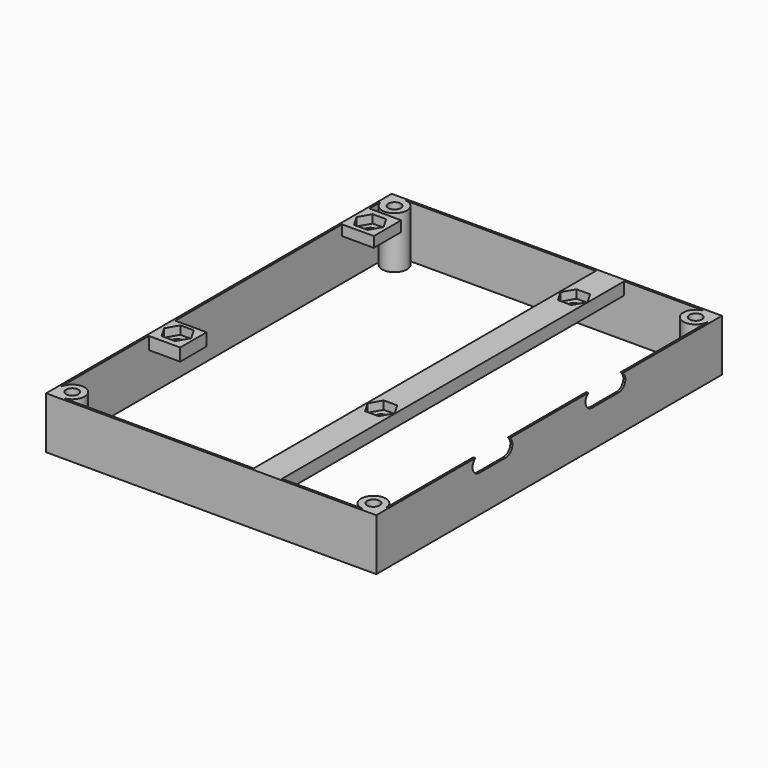
from build123d import *

# Parameters (mm, degrees)
SKETCH002_W     = 79.5
SKETCH002_H     = 104
SKETCH002_R     = 1.5
PAD002_DEPTH    = 12.5
SKETCH_W        = 8.021301
SKETCH_H        = 8.234894
SKETCH_R        = 1.5
PAD_DEPTH       = 2.5
POCKET_DEPTH    = 2
SKETCH033_W     = 7.946812
SKETCH033_H     = 7.946812
SKETCH033_R     = 1.5
PAD003_DEPTH    = 3
SKETCH034_W     = 6.801386
SKETCH034_H     = 103.670945
SKETCH034_R     = 1.5
PAD004_DEPTH    = 3
POCKET001_DEPTH = 2
POCKET002_DEPTH = 2
POCKET003_DEPTH = 2
POCKET027_DEPTH = 0.5


with BuildPart() as part:
    # Sketch002 → Pad002 (new body)
    with BuildSketch(Plane.XY):
        with Locations((-2.25, 6.5)):
            Rectangle(SKETCH002_W, SKETCH002_H)
        with Locations((-38.5, 55)):
            Circle(SKETCH002_R, mode=Mode.SUBTRACT)
        with Locations((34, 55)):
            Circle(SKETCH002_R, mode=Mode.SUBTRACT)
        with Locations((-38.5, -42)):
            Circle(SKETCH002_R, mode=Mode.SUBTRACT)
        with Locations((34, -42)):
            Circle(SKETCH002_R, mode=Mode.SUBTRACT)
        with BuildLine():
            Line((34, -45), (-38.5, -45))
            ThreePointArc((-38.5, -45), (-36.37868, -39.87868), (-41.5, -42))
            Line((-41.5, -42), (-41.5, 55))
            ThreePointArc((-41.5, 55), (-36.37868, 52.87868), (-38.5, 58))
            Line((-38.5, 58), (34, 58))
            ThreePointArc((34, 58), (31.87868, 52.87868), (37, 55))
            Line((37, 55), (37, -42))
            ThreePointArc((37, -42), (31.87868, -39.87868), (34, -45))
        make_face(mode=Mode.SUBTRACT)
    extrude(amount=-PAD002_DEPTH)

    # Sketch → Pad (join)
    with BuildSketch(Plane.XY):
        with Locations((-37.87762, 47.077984)):
            Rectangle(SKETCH_W, SKETCH_H)
        with Locations((-37.997646, 47.010536)):
            Circle(SKETCH_R, mode=Mode.SUBTRACT)
    extrude(amount=-PAD_DEPTH)

    # Sketch032 (on Face23 of Pad) → Pocket (cut)
    with BuildSketch(Plane.XY):
        Polygon((-34.726036, 46.982567), (-36.351036, 49.79715), (-39.601036, 49.79715), (-41.226036, 46.982567), (-39.601036, 44.167984), (-36.351036, 44.167984), align=None)
    extrude(amount=-POCKET_DEPTH, mode=Mode.SUBTRACT)

    # Sketch033 → Pad003 (join)
    with BuildSketch(Plane.XY):
        with Locations((-37.923063, -11.232048)):
            Rectangle(SKETCH033_W, SKETCH033_H)
        with Locations((-37.99107, -11.008605)):
            Circle(SKETCH033_R, mode=Mode.SUBTRACT)
    extrude(amount=-PAD003_DEPTH)

    # Sketch034 → Pad004 (join)
    with BuildSketch(Plane.XY):
        with Locations((10.981288, 6.512218)):
            Rectangle(SKETCH034_W, SKETCH034_H)
        with Locations((11.033937, 47.026531)):
            Circle(SKETCH034_R, mode=Mode.SUBTRACT)
        with Locations((11.033937, -10.967275)):
            Circle(SKETCH034_R, mode=Mode.SUBTRACT)
    extrude(amount=-PAD004_DEPTH)

    # Sketch035 (on Face34 of Pad004) → Pocket001 (cut)
    with BuildSketch(Plane.XY):
        Polygon((-36.326836, -8.14599), (-39.576836, -8.14599), (-41.201836, -10.960573), (-39.576836, -13.775156), (-36.326836, -13.775156), (-34.701836, -10.960573), align=None)
    extrude(amount=-POCKET001_DEPTH, mode=Mode.SUBTRACT)

    # Sketch036 (on Face26 of Pocket001) → Pocket002 (cut)
    with BuildSketch(Plane.XY):
        Polygon((12.678073, 49.85376), (9.428073, 49.85376), (7.803073, 47.039177), (9.428073, 44.224594), (12.678073, 44.224594), (14.303073, 47.039177), align=None)
    extrude(amount=-POCKET002_DEPTH, mode=Mode.SUBTRACT)

    # Sketch037 (on Face26 of Pocket002) → Pocket003 (cut)
    with BuildSketch(Plane.XY):
        Polygon((12.636199, -8.121596), (9.386199, -8.121596), (7.761199, -10.936179), (9.386199, -13.750762), (12.636199, -13.750762), (14.261199, -10.936179), align=None)
    extrude(amount=-POCKET003_DEPTH, mode=Mode.SUBTRACT)

    # Sketch058 → Pocket027 (cut)
    with BuildSketch(Plane.YZ.offset(37)):
        with BuildLine():
            ThreePointArc((-14.544005, 0.366508), (-16.544005, -1.633492), (-14.544005, -3.633492))
            Line((-14.544005, -3.633492), (-6.544005, -3.633492))
            ThreePointArc((-6.544005, -3.633492), (-4.544005, -1.633492), (-6.544005, 0.366508))
            Line((-6.544005, 0.366508), (-14.544005, 0.366508))
        make_face()
        with BuildLine():
            ThreePointArc((19.455995, 0.366508), (17.455995, -1.633492), (19.455995, -3.633492))
            Line((19.455995, -3.633492), (27.455995, -3.633492))
            ThreePointArc((27.455995, -3.633492), (29.455995, -1.633492), (27.455995, 0.366508))
            Line((27.455995, 0.366508), (19.455995, 0.366508))
        make_face()
    extrude(amount=POCKET027_DEPTH, mode=Mode.SUBTRACT)


solid = part.part
